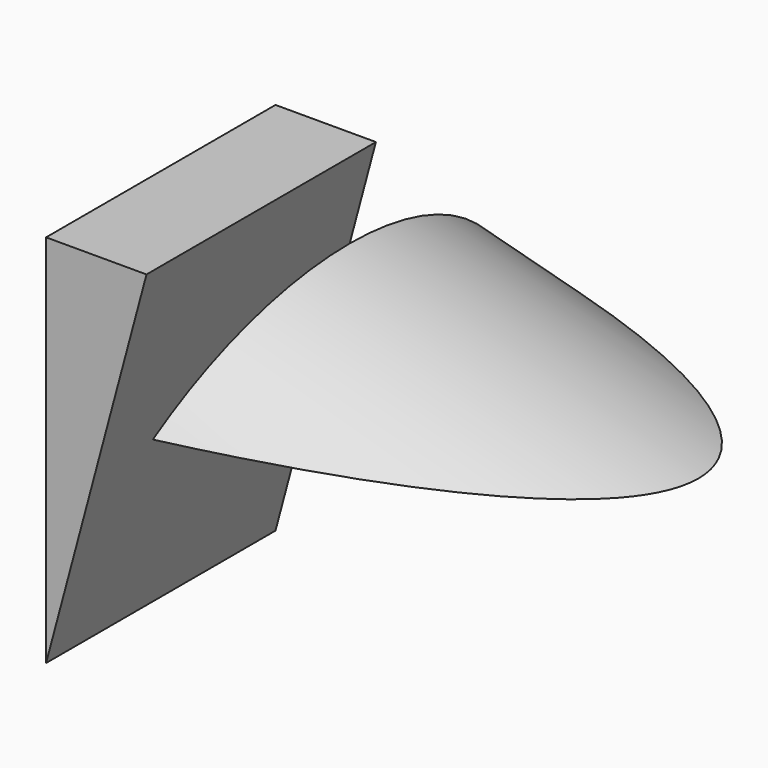
from build123d import *

# Parameters (mm, degrees)
F1_DEPTH = 25
F3_R     = 25
F4_DEPTH = 50
F5_W     = 90
F5_H     = 90
F6_DEPTH = 37.5


with BuildPart() as f1:
    # F0 (on Front) → F1 (new body)
    with BuildSketch(Plane.XZ):
        Polygon((0, 32.6764256879), (0, 0), (8.7556218746, 32.6764256879), align=None)
    extrude(amount=F1_DEPTH)


with BuildPart() as f4:
    # F3 (on offset) → F4 (new body)
    with BuildSketch(Plane(origin=(0, 0, 0), x_dir=(0, 1, 0), z_dir=(0.9659258263, 0, -0.2588190451))):
        Circle(F3_R)
    extrude(amount=F4_DEPTH)


with BuildPart() as f6:
    # F5 (on Front) → F6 (new body, symmetric)
    with BuildSketch(Plane.XZ):
        with Locations((20, -29)):
            Rectangle(F5_W, F5_H)
    extrude(amount=F6_DEPTH, both=True)


with BuildPart() as f4_1:
    add(f4.part)

    # F7: cut F6
    add(f6.part, mode=Mode.SUBTRACT)


solid = Compound([f1.part, f4_1.part])
